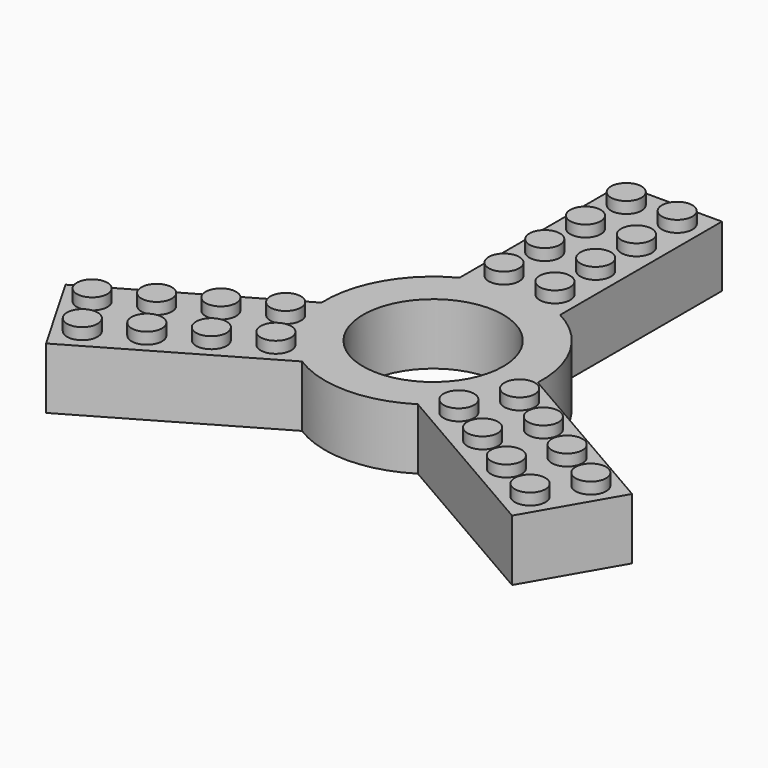
from build123d import *

# Parameters (mm, degrees)
F0_R     = 2.4
F1_DEPTH = 11.4
F0_R_2   = 11
F2_DEPTH = 9.6


with BuildPart() as f1:
    # F0 (on Top) → F1 (new body)
    with BuildSketch(Plane.XY):
        with Locations((4, 34.9)):
            Circle(F0_R)
        with Locations((-4, 42.9)):
            Circle(F0_R)
        with Locations((4, 42.9)):
            Circle(F0_R)
        with Locations((-4, 34.9)):
            Circle(F0_R)
        with Locations((-4, 26.9)):
            Circle(F0_R)
        with Locations((4, 26.9)):
            Circle(F0_R)
        with Locations((-4, 18.9)):
            Circle(F0_R)
        with Locations((4, 18.9)):
            Circle(F0_R)
        with Locations((-35.15249, -24.914102)):
            Circle(F0_R)
        with Locations((-39.15249, -17.985898)):
            Circle(F0_R)
        with Locations((-32.224287, -13.985898)):
            Circle(F0_R)
        with Locations((-25.325257, -10.002742)):
            Circle(F0_R)
        with Locations((-18.36788, -5.985898)):
            Circle(F0_R)
        with Locations((-14.36788, -12.914102)):
            Circle(F0_R)
        with Locations((-21.296083, -16.914102)):
            Circle(F0_R)
        with Locations((-28.224287, -20.914102)):
            Circle(F0_R)
        with Locations((14.36788, -12.914102)):
            Circle(F0_R)
        with Locations((18.36788, -5.985898)):
            Circle(F0_R)
        with Locations((25.296083, -9.985898)):
            Circle(F0_R)
        with Locations((32.224287, -13.985898)):
            Circle(F0_R)
        with Locations((39.15249, -17.985898)):
            Circle(F0_R)
        with Locations((35.15249, -24.914102)):
            Circle(F0_R)
        with Locations((28.224287, -20.914102)):
            Circle(F0_R)
        with Locations((21.296083, -16.914102)):
            Circle(F0_R)
    extrude(amount=F1_DEPTH)


with BuildPart() as f2:
    # F0 (on Top) → F2 (new body)
    with BuildSketch(Plane.XY):
        with BuildLine():
            Line((-7.9, 46.8), (-7.9, 15.052907))
            ThreePointArc((-7.9, 15.052907), (-14.722432, 8.5), (-16.9862, -0.684853))
            Line((-16.9862, -0.684853), (-44.479989, -16.558399))
            Line((-44.479989, -16.558399), (-40.529989, -23.4))
            Line((-40.529989, -23.4), (-36.579989, -30.241601))
            Line((-36.579989, -30.241601), (-9.0862, -14.368054))
            ThreePointArc((-9.0862, -14.368054), (0, -17), (9.0862, -14.368054))
            Line((9.0862, -14.368054), (36.579989, -30.241601))
            Line((36.579989, -30.241601), (40.529989, -23.4))
            Line((40.529989, -23.4), (44.479989, -16.558399))
            Line((44.479989, -16.558399), (16.9862, -0.684853))
            ThreePointArc((16.9862, -0.684853), (14.722432, 8.5), (7.9, 15.052907))
            Line((7.9, 15.052907), (7.9, 46.8))
            Line((7.9, 46.8), (0, 46.8))
            Line((0, 46.8), (-7.9, 46.8))
        make_face()
        with Locations((-35.15249, -24.914102)):
            Circle(F0_R, mode=Mode.SUBTRACT)
        with Locations((-28.224287, -20.914102)):
            Circle(F0_R, mode=Mode.SUBTRACT)
        with Locations((-39.15249, -17.985898)):
            Circle(F0_R, mode=Mode.SUBTRACT)
        with Locations((-32.224287, -13.985898)):
            Circle(F0_R, mode=Mode.SUBTRACT)
        with Locations((-21.296083, -16.914102)):
            Circle(F0_R, mode=Mode.SUBTRACT)
        with Locations((-14.36788, -12.914102)):
            Circle(F0_R, mode=Mode.SUBTRACT)
        with Locations((-25.325257, -10.002742)):
            Circle(F0_R, mode=Mode.SUBTRACT)
        with Locations((-18.36788, -5.985898)):
            Circle(F0_R, mode=Mode.SUBTRACT)
        Circle(F0_R_2, mode=Mode.SUBTRACT)
        with Locations((21.296083, -16.914102)):
            Circle(F0_R, mode=Mode.SUBTRACT)
        with Locations((14.36788, -12.914102)):
            Circle(F0_R, mode=Mode.SUBTRACT)
        with Locations((28.224287, -20.914102)):
            Circle(F0_R, mode=Mode.SUBTRACT)
        with Locations((35.15249, -24.914102)):
            Circle(F0_R, mode=Mode.SUBTRACT)
        with Locations((32.224287, -13.985898)):
            Circle(F0_R, mode=Mode.SUBTRACT)
        with Locations((39.15249, -17.985898)):
            Circle(F0_R, mode=Mode.SUBTRACT)
        with Locations((18.36788, -5.985898)):
            Circle(F0_R, mode=Mode.SUBTRACT)
        with Locations((25.296083, -9.985898)):
            Circle(F0_R, mode=Mode.SUBTRACT)
        with Locations((-4, 18.9)):
            Circle(F0_R, mode=Mode.SUBTRACT)
        with Locations((-4, 26.9)):
            Circle(F0_R, mode=Mode.SUBTRACT)
        with Locations((-4, 34.9)):
            Circle(F0_R, mode=Mode.SUBTRACT)
        with Locations((-4, 42.9)):
            Circle(F0_R, mode=Mode.SUBTRACT)
        with Locations((4, 18.9)):
            Circle(F0_R, mode=Mode.SUBTRACT)
        with Locations((4, 26.9)):
            Circle(F0_R, mode=Mode.SUBTRACT)
        with Locations((4, 34.9)):
            Circle(F0_R, mode=Mode.SUBTRACT)
        with Locations((4, 42.9)):
            Circle(F0_R, mode=Mode.SUBTRACT)
    extrude(amount=F2_DEPTH)


solid = Compound([f1.part, f2.part])
